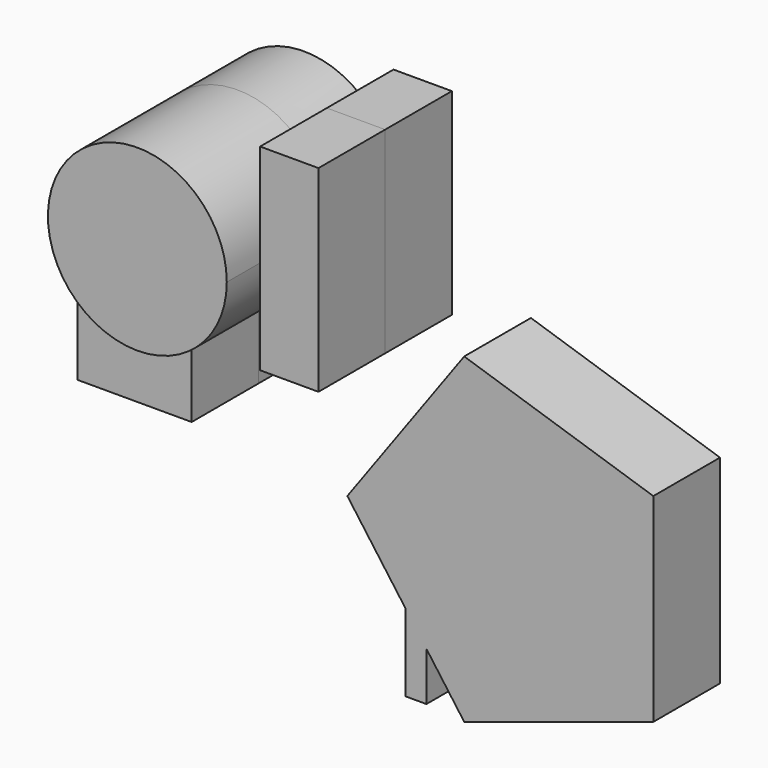
from build123d import *

# Parameters (mm, degrees)
F1_DEPTH = 40
F2_DEPTH = 50
F3_DEPTH = 20
F4_W     = 20
F4_H     = 54.827603
F5_DEPTH = 5


with BuildPart() as f1:
    # F0 (on Front) → F1 (new body)
    with BuildSketch(Plane.XZ):
        Polygon((-18.901825, 47.254555), (-18.901825, 22.680218), (-18.901825, 0), (-4.900478, 0), (-4.900478, 47.254555), align=None)
        Polygon((-35.327843, 1.225118), (-40.356925, 1.225118), (-62.681616, 1.225118), (-62.681616, -16.276568), (-35.327843, -16.276568), align=None)
    extrude(amount=F1_DEPTH)


with BuildPart() as f2:
    # F0 (on Front) → F2 (new body)
    with BuildSketch(Plane.XZ):
        with BuildLine():
            ThreePointArc((-40.356925, 1.225118), (-25.185878, 7.509171), (-18.901825, 22.680218))
            ThreePointArc((-18.901825, 22.680218), (-55.527971, 37.851264), (-40.356925, 1.225118))
        make_face()
    extrude(amount=F2_DEPTH)


with BuildPart() as f3:
    # F0 (on Front) → F3 (new body)
    with BuildSketch(Plane.XZ):
        with BuildLine():
            ThreePointArc((-40.356925, 1.225118), (-25.185878, 7.509171), (-18.901825, 22.680218))
            ThreePointArc((-18.901825, 22.680218), (-55.527971, 37.851264), (-40.356925, 1.225118))
        make_face()
        Polygon((-18.901825, 47.254555), (-18.901825, 22.680218), (-18.901825, 0), (-4.900478, 0), (-4.900478, 47.254555), align=None)
        Polygon((-35.327843, 1.225118), (-40.356925, 1.225118), (-62.681616, 1.225118), (-62.681616, -16.276568), (-35.327843, -16.276568), align=None)
        Polygon((59.430915, -56.929383), (59.430915, -9.226989), (14.063242, 5.513861), (-13.975521, -33.078186), (14.063242, -71.670234), align=None)
    extrude(amount=F3_DEPTH)

    # F4 (on Right) → F5 (join)
    with BuildSketch(Plane.YZ):
        with Locations((-10, -43.448289)):
            Rectangle(F4_W, F4_H)
    extrude(amount=F5_DEPTH)


solid = Compound([f1.part, f2.part, f3.part])
